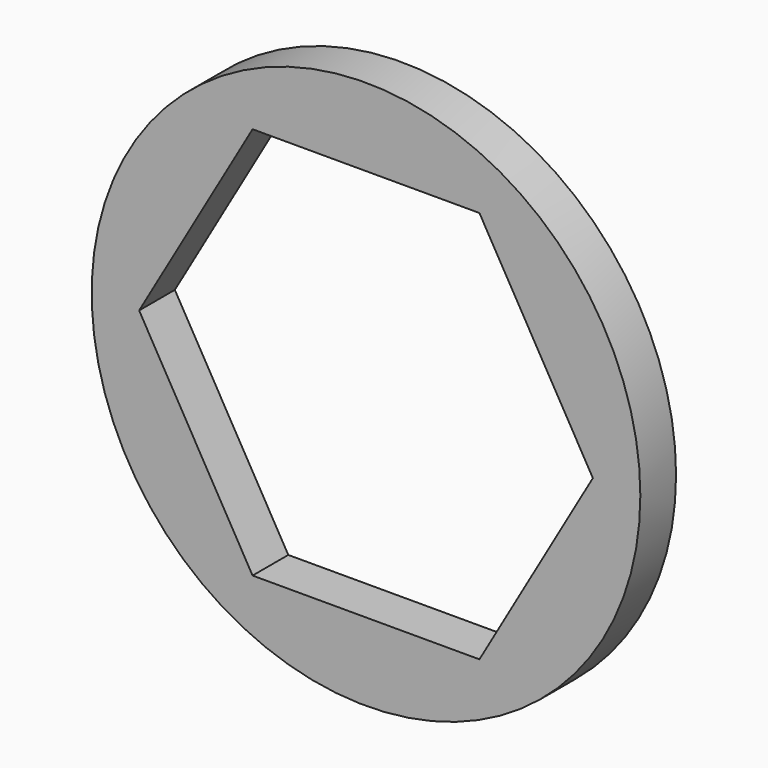
from build123d import *

# Parameters (mm, degrees)
F0_R     = 9.7536
F1_DEPTH = 1.5875
F3_DEPTH = 1.5885


with BuildPart() as f1:
    # F0 (on Front) → F1 (new body)
    with BuildSketch(Plane.XZ):
        Circle(F0_R)
    extrude(amount=F1_DEPTH)

    # F2 (on face) → F3 (cut, through all)
    with BuildSketch(Plane.XZ.offset(1.5875)):
        Polygon((4.032792, -6.985), (8.065583, 0), (4.032792, 6.985), (-4.032792, 6.985), (-8.065583, 0), (-4.032792, -6.985), align=None)
    extrude(amount=-F3_DEPTH, mode=Mode.SUBTRACT)


solid = f1.part
